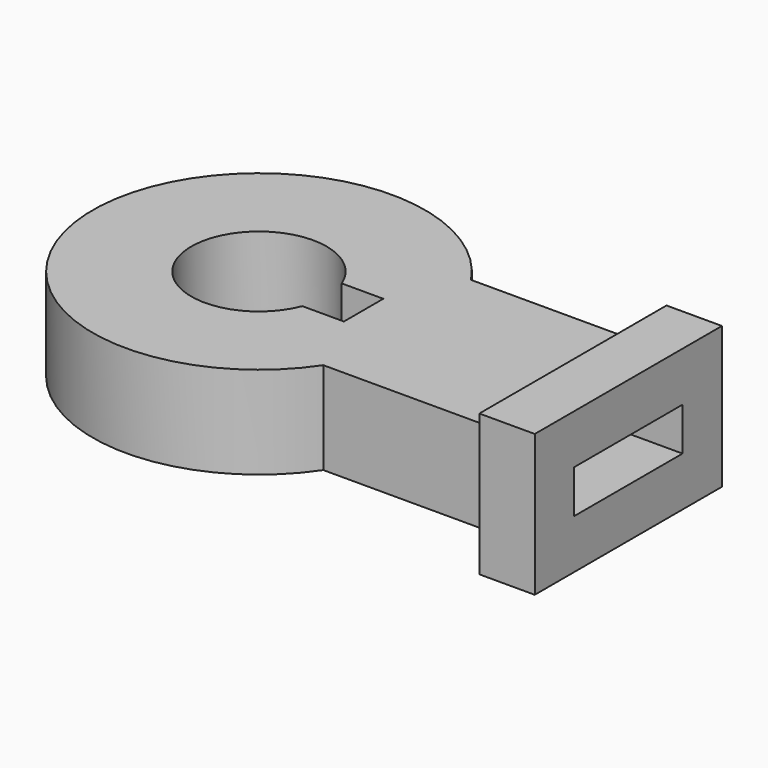
from build123d import *

# Parameters (mm, degrees)
F1_DEPTH = 15
F3_DEPTH = 9


with BuildPart() as f1:
    # F0 (on Top) → F1 (new body)
    with BuildSketch(Plane.XY):
        with BuildLine():
            Line((4.833132, -35.550311), (4.833132, -20.550311))
            Line((4.833132, -20.550311), (4.833132, -5.550311))
            Line((4.833132, -5.550311), (-23.716924, -5.550311))
            ThreePointArc((-23.716924, -5.550311), (-73.166868, -20.550311), (-23.716924, -35.550311))
            Line((-23.716924, -35.550311), (4.833132, -35.550311))
        make_face()
        with BuildLine():
            Line((-29.166868, -16.550311), (-29.166868, -20.550311))
            Line((-29.166868, -20.550311), (-29.166868, -24.550311))
            Line((-29.166868, -24.550311), (-35.919917, -24.550311))
            ThreePointArc((-35.919917, -24.550311), (-57.166868, -20.550311), (-35.919917, -16.550311))
            Line((-35.919917, -16.550311), (-29.166868, -16.550311))
        make_face(mode=Mode.SUBTRACT)
    extrude(amount=F1_DEPTH)

    # F2 (on face) → F3 (join)
    with BuildSketch(Plane.YZ.offset(4.833132)):
        Polygon((-1.550311, 19), (-20.550311, 19), (-39.550311, 19), (-39.550311, -4), (-1.550311, -4), align=None)
        Polygon((-31.550311, 11), (-20.550311, 11), (-9.550311, 11), (-9.550311, 4), (-20.550311, 4), (-31.550311, 4), align=None, mode=Mode.SUBTRACT)
    extrude(amount=F3_DEPTH)


solid = f1.part
